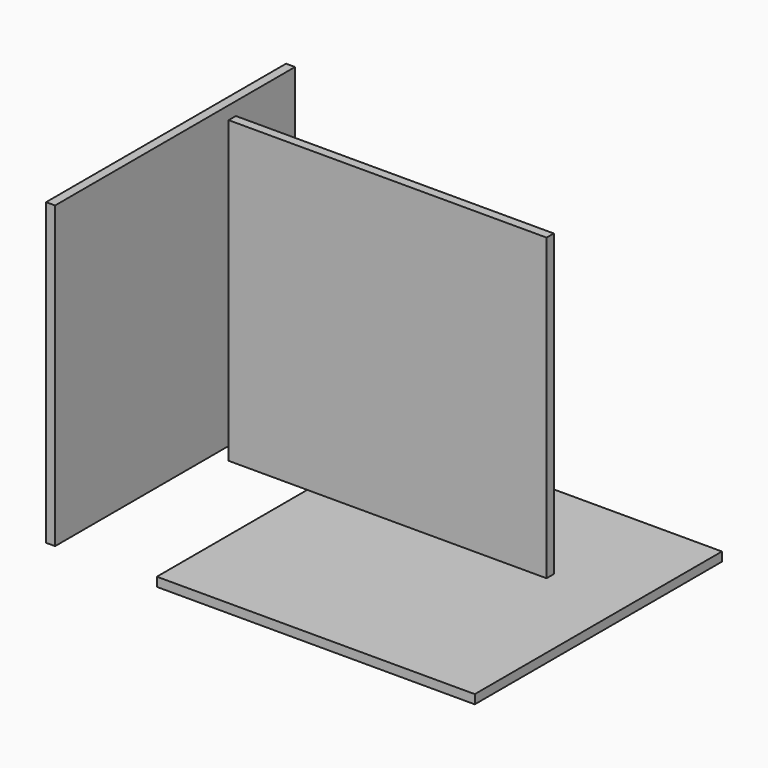
from build123d import *

# Parameters (mm, degrees)
F0_W     = 424
F0_H     = 400
F1_DEPTH = 12
F3_W     = 424
F3_H     = 412
F4_DEPTH = 12
F6_W     = 400
F6_H     = 400
F7_DEPTH = 12


with BuildPart() as f1:
    # F0 (on Front) → F1 (new body)
    with BuildSketch(Plane.XZ):
        with Locations((112.809832, 111.40499)):
            Rectangle(F0_W, F0_H)
    extrude(amount=F1_DEPTH)


with BuildPart() as f4:
    # F3 (on offset) → F4 (new body)
    with BuildSketch(Plane.XY.offset(-200)):
        with Locations((98.353195, 92.388749)):
            Rectangle(F3_W, F3_H)
    extrude(amount=F4_DEPTH)


with BuildPart() as f7:
    # F6 (on offset) → F7 (new body)
    with BuildSketch(Plane.YZ.offset(-150)):
        with Locations((-52.842546, 96.516547)):
            Rectangle(F6_W, F6_H)
    extrude(amount=F7_DEPTH)


solid = Compound([f1.part, f4.part, f7.part])
